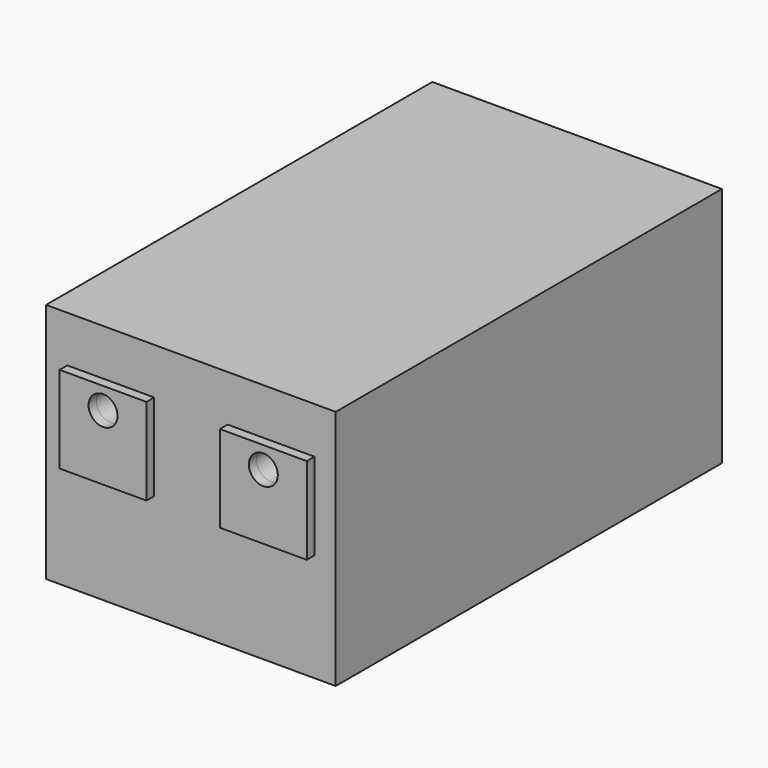
from build123d import *

# Parameters (mm, degrees)
F0_W     = 30
F0_H     = 25
F1_DEPTH = 50
F2_R     = 1.5
F3_DEPTH = 10
F2_W     = 9
F2_H     = 9
F4_DEPTH = 1


with BuildPart() as f1:
    # F0 (on Front) → F1 (new body)
    with BuildSketch(Plane.XZ):
        Rectangle(F0_W, F0_H)
    extrude(amount=-F1_DEPTH)

    # F2 (on face) → F3 (cut)
    with BuildSketch(Plane.XZ):
        with Locations((-8.3, 5.45)):
            Circle(F2_R)
        with Locations((8.3, 5.45)):
            Circle(F2_R)
    extrude(amount=-F3_DEPTH, mode=Mode.SUBTRACT)


with BuildPart() as f4:
    # F2 (on face) → F4 (new body)
    with BuildSketch(Plane.XZ):
        with Locations((-8.3, 3.2)):
            Rectangle(F2_W, F2_H)
        with Locations((-8.3, 5.45)):
            Circle(F2_R, mode=Mode.SUBTRACT)
        with Locations((8.3, 3.2)):
            Rectangle(F2_W, F2_H)
        with Locations((8.3, 5.45)):
            Circle(F2_R, mode=Mode.SUBTRACT)
    extrude(amount=F4_DEPTH)


solid = Compound([f1.part, f4.part])
